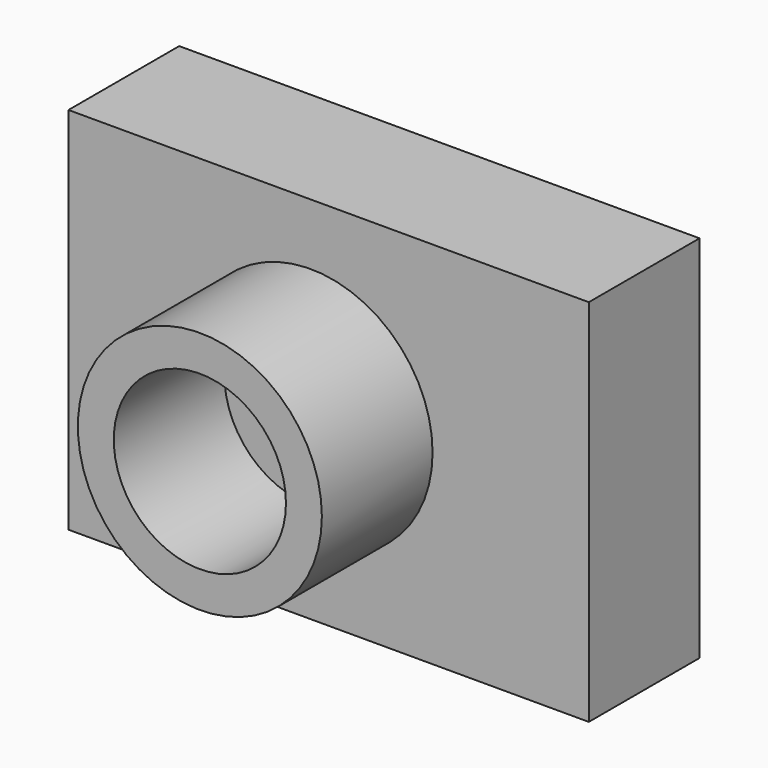
from build123d import *

# Parameters (mm, degrees)
F0_R     = 22.39752
F0_R_2   = 15.804848
F1_DEPTH = 50.8
F2_W     = 95.513668
F2_H     = 67.828547
F3_DEPTH = 25.4


with BuildPart() as f1:
    # F0 (on Front) → F1 (new body)
    with BuildSketch(Plane.XZ):
        Circle(F0_R)
        Circle(F0_R_2, mode=Mode.SUBTRACT)
    extrude(amount=F1_DEPTH)

    # F2 (on Front) → F3 (join)
    with BuildSketch(Plane.XZ):
        with Locations((3.322212, -0.281336)):
            Rectangle(F2_W, F2_H)
    extrude(amount=F3_DEPTH)


solid = f1.part
